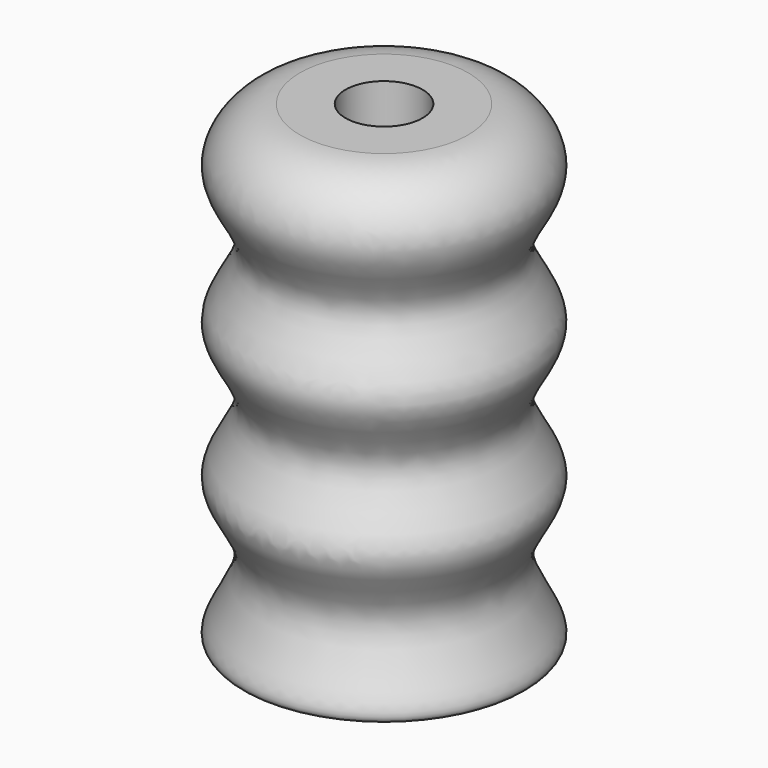
from build123d import *

# Parameters (mm, degrees)
F2_R     = 5.95
F3_DEPTH = 73.0010001
F4_R     = 6.5
F5_DEPTH = 46


with BuildPart() as f1:
    # F0 (on Right) → F1 (revolve)
    with BuildSketch(Plane.YZ):
        with BuildLine():
            Line((0, 73), (0, 0))
            Line((0, 0), (21, 0))
            add(Edge.make_bspline(
                [(13, 73), (18.136955159, 73), (25.9599337866, 64.0409360544), (14.06615934, 54.0451662341), (25.9802216397, 43.3505110298), (14.0129541012, 32.9527896469), (25.9679619557, 22.2383303828), (14.1151980762, 12.4938888218), (23.2468316742, 1.8862408584), (21.646819451, 0), (21, 0)],
                knots=[0, 0, 0, 0, 0.1413997222, 0.2757385334, 0.4100773447, 0.544416156, 0.6787549672, 0.8130937785, 0.9474325897, 1, 1, 1, 1], degree=3))
            Line((13, 73), (0, 73))
        make_face()
    revolve(axis=Axis((0, 0, 36.5), (0, 0, 1)))

    # F2 (on face) → F3 (cut, through all)
    with BuildSketch(Plane.XY.offset(73)):
        Circle(F2_R)
    extrude(amount=-F3_DEPTH, mode=Mode.SUBTRACT)

    # F4 (on face) → F5 (cut)
    with BuildSketch(Plane(origin=(0, 0, 0), x_dir=(1, 0, 0), z_dir=(0, 0, -1))):
        Circle(F4_R)
    extrude(amount=-F5_DEPTH, mode=Mode.SUBTRACT)


solid = f1.part
